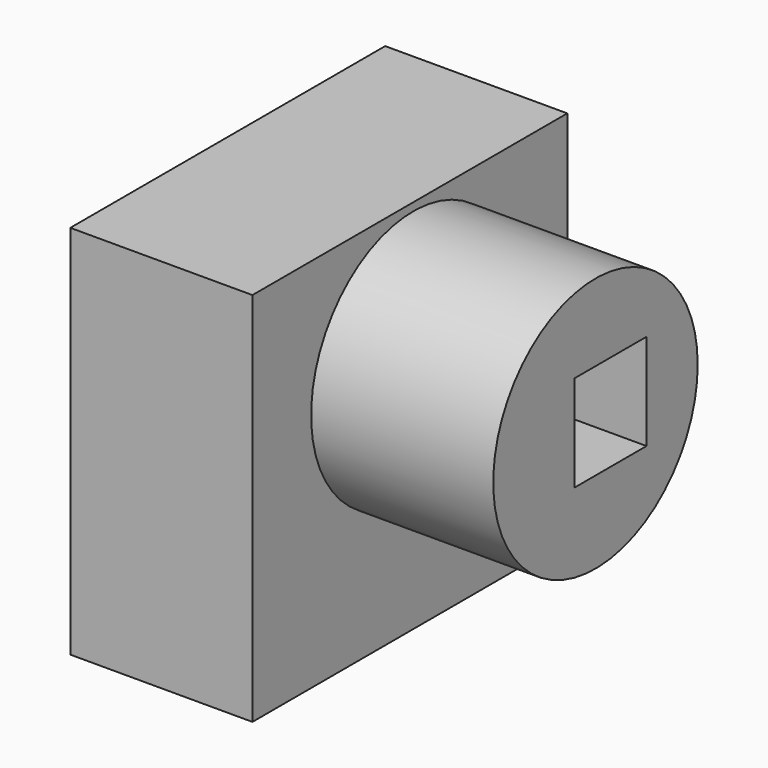
from build123d import *

# Parameters (mm, degrees)
F0_W     = 54.889154
F0_H     = 52.407466
F1_DEPTH = 25.4
F2_R     = 17.820704
F3_DEPTH = 25.4
F4_W     = 12.562469
F4_H     = 13.418828
F5_DEPTH = 50.801


with BuildPart() as f1:
    # F0 (on Right) → F1 (new body)
    with BuildSketch(Plane.YZ):
        with Locations((27.444577, -26.203733)):
            Rectangle(F0_W, F0_H)
    extrude(amount=F1_DEPTH)

    # F2 (on face) → F3 (join)
    with BuildSketch(Plane.YZ.offset(25.4)):
        with Locations((28.055245, -18.92175)):
            Circle(F2_R)
    extrude(amount=F3_DEPTH)

    # F4 (on face) → F5 (cut, through all)
    with BuildSketch(Plane.YZ.offset(50.8)):
        with Locations((30.671432, -18.585598)):
            Rectangle(F4_W, F4_H)
    extrude(amount=-F5_DEPTH, mode=Mode.SUBTRACT)


solid = f1.part
